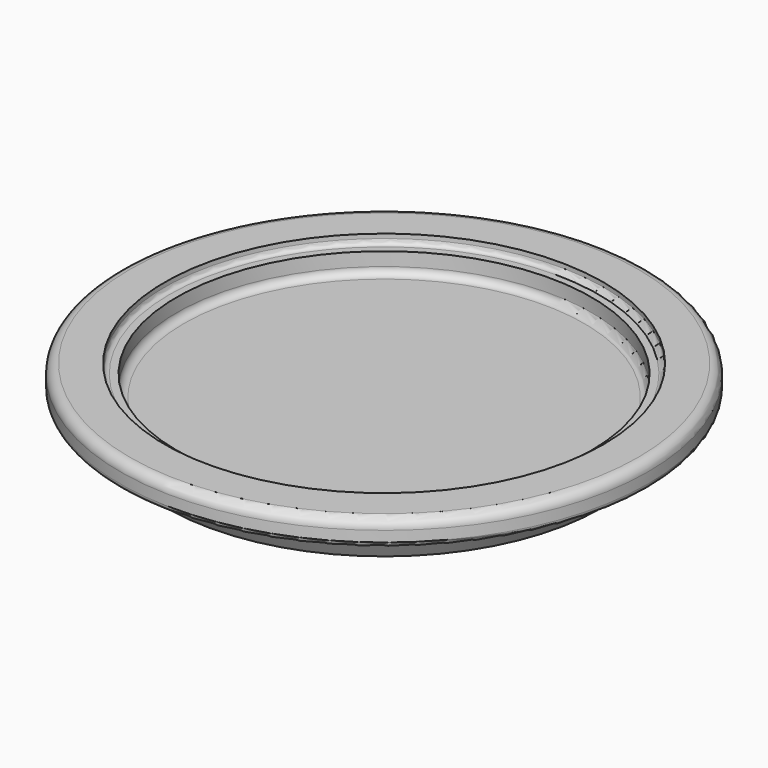
from build123d import *


with BuildPart() as f1:
    # F0 (on Front) → F1 (revolve)
    with BuildSketch(Plane.XZ):
        with BuildLine():
            Line((54.6, 7.6), (54.6, 9.8))
            ThreePointArc((54.6, 9.8), (54.014214, 11.214214), (52.6, 11.8))
            Line((52.6, 11.8), (45.4, 11.8))
            Line((45.4, 11.8), (45.4, 10.9))
            ThreePointArc((45.4, 10.9), (45.107107, 10.192893), (44.4, 9.9))
            Line((44.4, 9.9), (42.9, 9.9))
            Line((42.9, 9.9), (42.9, 7.1))
            ThreePointArc((42.9, 7.1), (42.46066, 6.03934), (41.4, 5.6))
            Line((41.4, 5.6), (0, 5.6))
            Line((0, 5.6), (0, 0))
            Line((0, 0), (44.879274, 0))
            Line((44.879274, 0), (46.9, 3.5))
            Line((46.9, 3.5), (46.9, 5.1))
            ThreePointArc((46.9, 5.1), (47.33934, 6.16066), (48.4, 6.6))
            Line((48.4, 6.6), (53.6, 6.6))
            ThreePointArc((53.6, 6.6), (54.307107, 6.892893), (54.6, 7.6))
        make_face()
    revolve(axis=Axis((0, 0, 2.8), (0, 0, -1)))


solid = f1.part
